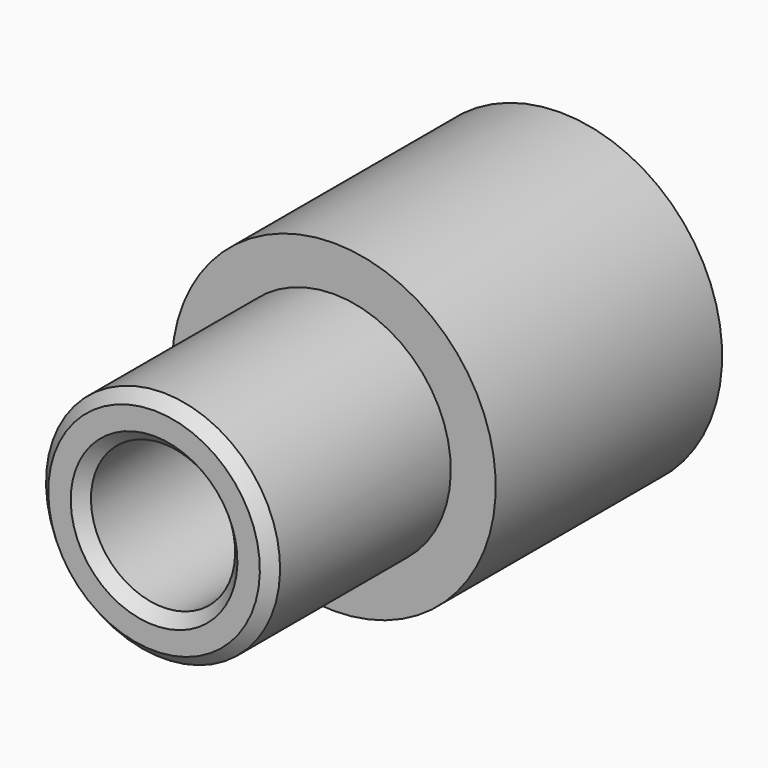
from build123d import *

# Parameters (mm, degrees)
F2_SIZE = 0.25


with BuildPart() as f1:
    # F0 (on Right) → F1 (revolve)
    with BuildSketch(Plane.YZ):
        Polygon((-2.891378, 2.605), (-7.891378, 2.605), (-7.891378, 1.605), (-1.591378, 1.605), (-1.591378, 1.315), (1.908622, 1.315), (1.908622, 1.915), (3.408622, 1.915), (3.408622, 3.605), (-2.891378, 3.605), align=None)
    revolve(axis=Axis((0, -1.641889, 0), (0, 1, 0)))

    # F2
    f2_edges = [f1.edges().sort_by_distance(p)[0] for p in [
        (0, 3.408622, -1.915),
        (0, -7.891378, -1.605),
        (0, -7.891378, -2.605),
        (0, -1.591378, -1.315),
    ]]
    chamfer(f2_edges, length=F2_SIZE)


solid = f1.part
